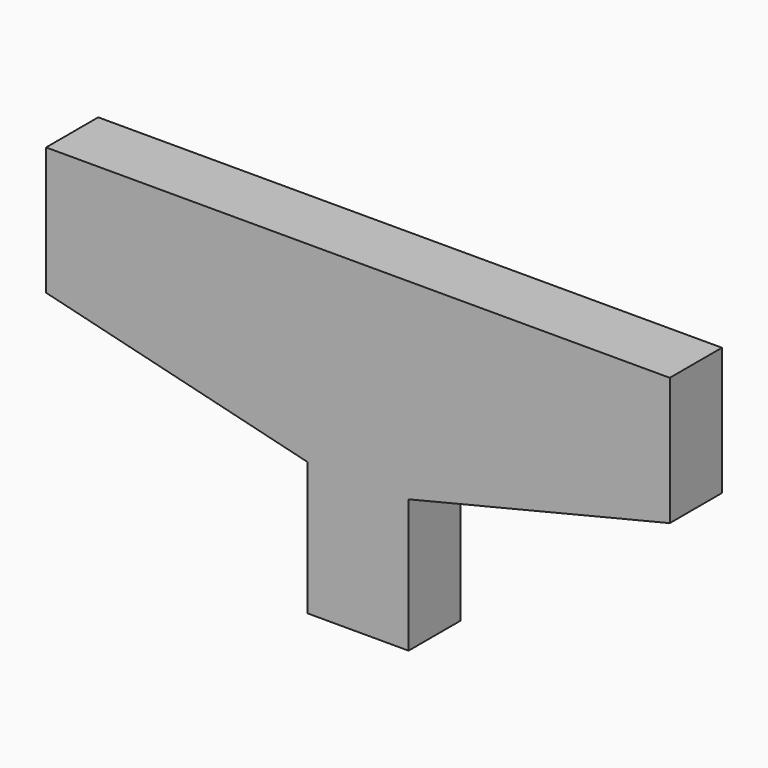
from build123d import *

# Parameters (mm, degrees)
F1_DEPTH = 5


with BuildPart() as f1:
    # F0 (on Front) → F1 (new body)
    with BuildSketch(Plane.XZ):
        Polygon((-3.886365, -18.820507), (0, -18.820507), (0, 6.134038), (-23.93182, 6.134038), (-23.93182, -3.684144), (-3.886365, -8.593234), align=None)
    extrude(amount=F1_DEPTH)

    # F2: F1 across plane


with BuildPart() as f1_1:
    add(f1.part)
    add(f1.part.mirror(Plane.YZ))


solid = f1_1.part
